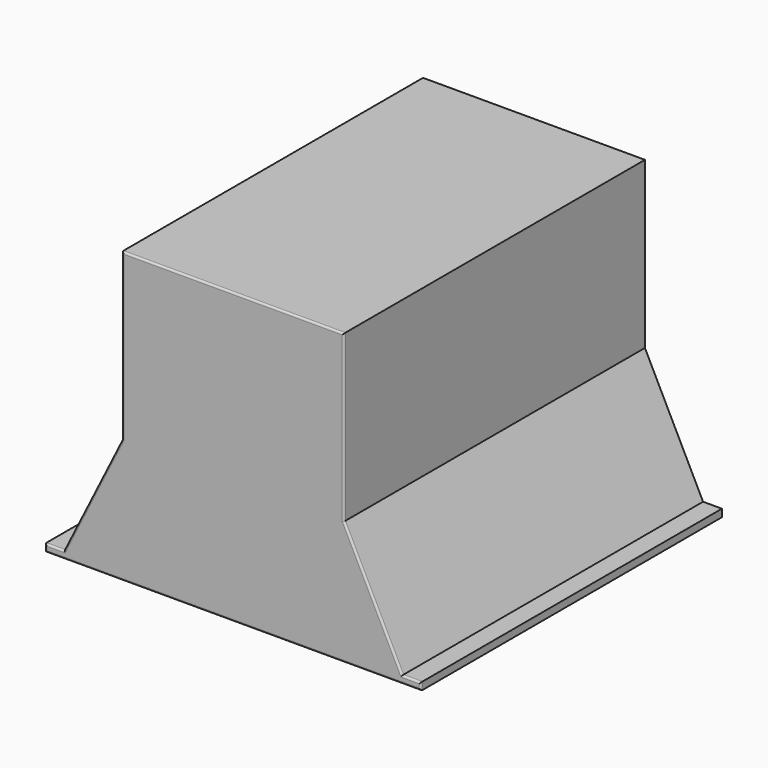
from build123d import *

# Parameters (mm, degrees)
F2_DEPTH = 400
F5_DEPTH = 10
F8_R     = 2


with BuildPart() as f2:
    # F1 (on Front) → F2 (new body)
    with BuildSketch(Plane.XZ):
        Polygon((-199.8697698991, -1.5957240637), (-199.8697698991, -9.5957240637), (-174.8697698991, -9.5957240637), (-110, 120.4042759363), (-110, 290.4042759363), (0, 290.4042759363), (0, 298.4042759363), (-118, 298.4042759363), (-118, 122.289434411), (-179.8184748013, -1.5957240637), align=None)
        Polygon((0, 298.4042759363), (0, 290.4042759363), (110, 290.4042759363), (110, 120.4042759363), (174.8697698991, -9.5957240637), (199.8697698991, -9.5957240637), (199.8697698991, -1.5957240637), (179.8184748013, -1.5957240637), (118, 122.289434411), (118, 298.4042759363), align=None)
    extrude(amount=F2_DEPTH)


with BuildPart() as f5:
    # F4 (on offset) → F5 (new body)
    with BuildSketch(Plane.XZ.offset(400)):
        Polygon((118, 298.4042759363), (-118, 298.4042759363), (-118, 122.289434411), (-179.548561573, -1.5957240637), (-199.8697698991, -1.5957240637), (-199.8697698991, -9.5957240637), (199.8697698991, -9.5957240637), (199.8697698991, -1.5957240637), (179.7748506069, -1.5957240637), (118, 122.289434411), align=None)
    extrude(amount=-F5_DEPTH)

    # F6: cut F2
    add(f2.part, mode=Mode.SUBTRACT)

    # F7: union F2
    add(f2.part)

    # F8
    f8_edges = [f5.edges().sort_by_distance(p)[0] for p in [
        (-189.844122, -400, -1.595724),
        (-199.86977, -400, -5.595724),
        (0, -400, -9.595724),
        (199.86977, -400, -5.595724),
        (189.844122, -400, -1.595724),
        (148.909237, -400, 60.346855),
        (118, -400, 210.346855),
        (0, -400, 298.404276),
        (-118, -400, 210.346855),
        (-148.909237, -400, 60.346855),
    ]]
    fillet(f8_edges, radius=F8_R)


solid = f5.part
